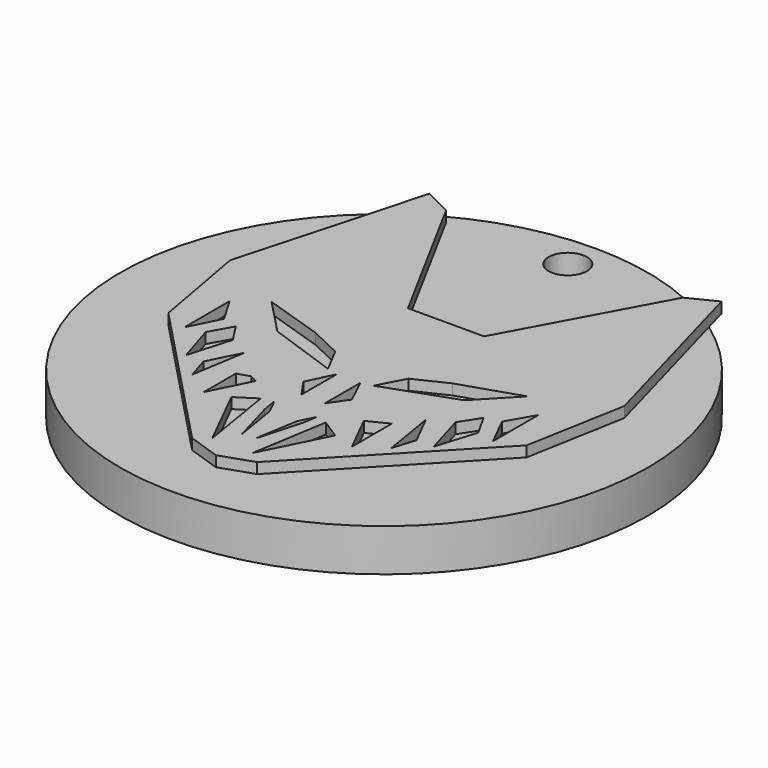
from build123d import *

# Parameters (mm, degrees)
F1_DEPTH    = 2.54
F3_DEPTH    = 86.106
F5_DEPTH    = 95.25
F7_DEPTH    = 55.626
F8_R        = 63.189953
F9_DEPTH    = 2.54
F10_R       = 4.593675
F11_DEPTH   = 25.4
F9_FACE_R   = 63.189953
F9_FACE_R_2 = 4.593675
F12_DEPTH   = 7.62


with BuildPart() as f1:
    # F0 (on Top) → F1 (new body)
    with BuildSketch(Plane.XY):
        Polygon((9.110871, 18.553045), (0, 18.553045), (-9.110871, 18.553045), (-28.326523, 54.002609), (-34.952607, 57.315651), (-47.210872, 12.92087), (-42.903915, -10.933043), (-7.785654, -47.707826), (0, -50.358262), (7.785654, -47.707826), (42.903915, -10.933043), (47.210872, 12.92087), (34.952607, 57.315651), (28.326523, 54.002609), align=None)
    extrude(amount=F1_DEPTH)

    # F2 (on Top) → F3 (cut)
    with BuildSketch(Plane.XY):
        Polygon((-5.466522, -9.93913), (-8.779565, -3.644348), (-16.399564, 0), (-30.645652, 4.638261), (-22.363044, -3.975652), align=None)
        Polygon((8.779565, -3.644348), (5.466522, -9.93913), (22.363044, -3.975652), (30.645652, 4.638261), (16.399564, 0), align=None)
    extrude(amount=F3_DEPTH, mode=Mode.SUBTRACT)

    # F4 (on Top) → F5 (cut)
    with BuildSketch(Plane.XY):
        Polygon((-36.940437, -13.583479), (-33.296086, -6.294783), (-36.940437, 0), (-36.940437, -5.632174), align=None)
        Polygon((-29.651739, -22.197392), (-26.670001, -11.926956), (-29.651739, -7.288696), (-32.633476, -12.589565), align=None)
        Polygon((-23.827148, -27.621334), (-21.700436, -14.577392), (-25.51044, -22.197392), align=None)
        Polygon((-14.765322, -21.278939), (-17.724782, -22.197392), (-17.730825, -31.802197), (-12.928419, -22.197392), align=None)
        Polygon((-7.785654, -27.166957), (-12.423914, -30.148696), (-4.803916, -45.388699), align=None)
        Polygon((12.423914, -30.148696), (7.785654, -27.166957), (4.803916, -45.388699), align=None)
        Polygon((17.724782, -19.799208), (12.928419, -22.197392), (17.730825, -31.802197), (17.724782, -22.197392), align=None)
        Polygon((21.700436, -14.577392), (23.827148, -27.621334), (25.51044, -22.197392), align=None)
        Polygon((26.670001, -11.926956), (29.651739, -22.197392), (32.633476, -12.589565), (29.651739, -7.288696), align=None)
        Polygon((33.296086, -6.294783), (36.940437, -13.583479), (36.940437, -5.632174), (36.940437, 0), align=None)
        Polygon((-5.071647, -26.487922), (-4.472611, -30.148696), (-1.531945, -40.594514), (-3.24126, -30.148696), align=None)
        Polygon((3.24126, -30.148696), (1.531945, -40.594514), (4.472611, -30.148696), (5.071647, -26.487922), align=None)
    extrude(amount=F5_DEPTH, mode=Mode.SUBTRACT)

    # F6 (on Top) → F7 (cut)
    with BuildSketch(Plane.XY):
        Polygon((-2.816088, -21.203479), (-2.816088, -10.601739), (-5.797826, -16.896522), align=None)
        Polygon((2.816088, -10.601739), (2.816088, -21.203479), (5.797826, -16.896522), align=None)
    extrude(amount=F7_DEPTH, mode=Mode.SUBTRACT)

    # F8 (on face) → F9 (join)
    with BuildSketch(Plane(origin=(0, 0, 0), x_dir=(1, 0, 0), z_dir=(0, 0, -1))):
        Circle(F8_R)
    extrude(amount=F9_DEPTH)

    # F10 (on face) → F11 (cut)
    with BuildSketch(Plane.XY):
        with Locations((0, 54.996524)):
            Circle(F10_R)
    extrude(amount=-F11_DEPTH, mode=Mode.SUBTRACT)

    # F9_face (on face) → F12 (join)
    with BuildSketch(Plane(origin=(0, -0.292187, -2.54), x_dir=(1, 0, 0), z_dir=(0, 0, -1))):
        with Locations((0, -0.292187)):
            Circle(F9_FACE_R)
        with Locations((0, -55.288711)):
            Circle(F9_FACE_R_2, mode=Mode.SUBTRACT)
    extrude(amount=F12_DEPTH)


solid = f1.part
